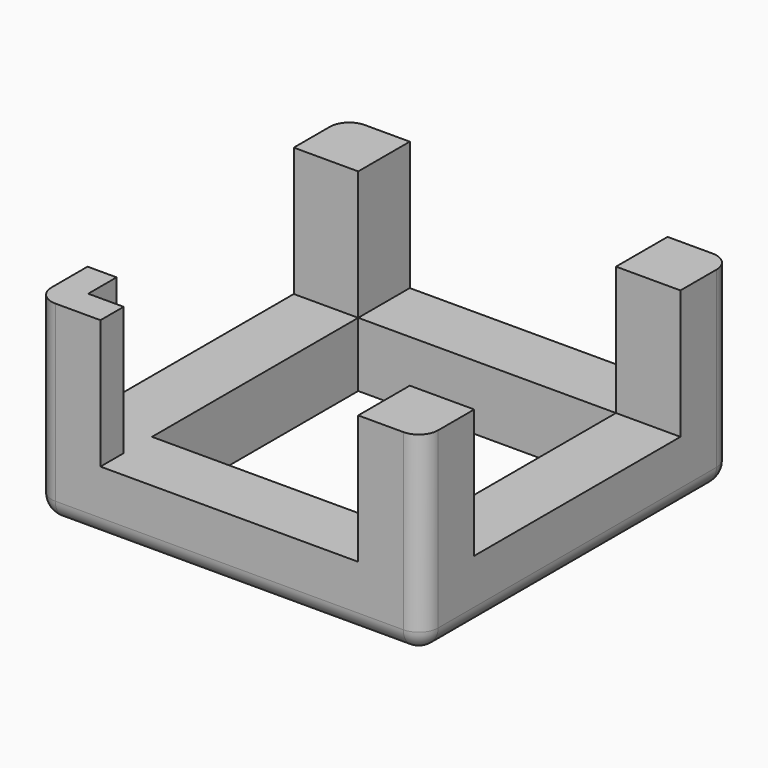
from build123d import *

# Parameters (mm, degrees)
F0_W     = 60
F0_H     = 60
F1_DEPTH = 30
F2_W     = 40
F2_H     = 40
F3_DEPTH = 30
F4_W     = 40
F4_H     = 20
F5_DEPTH = 60
F6_W     = 40
F6_H     = 20
F7_DEPTH = 60
F8_W     = 5.5
F8_H     = 5.5
F9_DEPTH = 20
F10_R    = 3


with BuildPart() as f1:
    # F0 (on Top) → F1 (new body)
    with BuildSketch(Plane.XY):
        Rectangle(F0_W, F0_H)
    extrude(amount=F1_DEPTH)

    # F2 (on face) → F3 (cut)
    with BuildSketch(Plane.XY.offset(30)):
        Rectangle(F2_W, F2_H)
    extrude(amount=-F3_DEPTH, mode=Mode.SUBTRACT)

    # F4 (on face) → F5 (cut)
    with BuildSketch(Plane.YZ.offset(30)):
        with Locations((0, 20)):
            Rectangle(F4_W, F4_H)
    extrude(amount=-F5_DEPTH, mode=Mode.SUBTRACT)

    # F6 (on face) → F7 (cut)
    with BuildSketch(Plane.XZ.offset(30)):
        with Locations((0, 20)):
            Rectangle(F6_W, F6_H)
    extrude(amount=-F7_DEPTH, mode=Mode.SUBTRACT)

    # F8 (on face) → F9 (cut)
    with BuildSketch(Plane.XY.offset(30)):
        with Locations((-22.75, -22.75)):
            Rectangle(F8_W, F8_H)
    extrude(amount=-F9_DEPTH, mode=Mode.SUBTRACT)

    # F10
    f10_edges = [f1.edges().sort_by_distance(p)[0] for p in [
        (30, 30, 15),
        (0, 30, 0),
        (-30, 30, 15),
        (30, -30, 15),
        (-30, -30, 15),
        (0, -30, 0),
        (-30, 0, 0),
        (30, 0, 0),
    ]]
    fillet(f10_edges, radius=F10_R)


solid = f1.part
